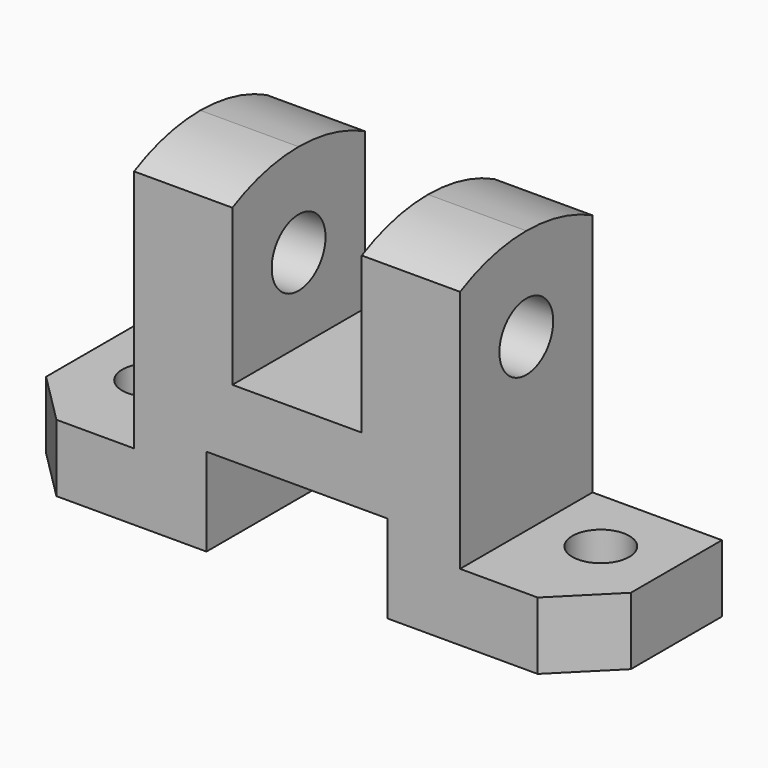
from build123d import *

# Parameters (mm, degrees)
F1_DEPTH       = 56.5
F3_DEPTH       = 25
F5_DEPTH       = 25
F7_DEPTH       = 12.5
F8_W           = 32
F8_H           = 17
F9_DEPTH       = 17.5
F10_R          = 6.5
F11_DEPTH      = 56.501
F11_DEPTH_BACK = 56.501
F12_R          = 5.5
F13_DEPTH      = 13.001
F14_SIZE2      = 10
F14_SIZE       = 10


with BuildPart() as f1:
    # F0 (on Right) → F1 (new body, symmetric)
    with BuildSketch(Plane.YZ):
        with BuildLine():
            Line((-16, 0), (0, 0))
            Line((0, 0), (16, 0))
            Line((16, 0), (16, 60.128765))
            ThreePointArc((16, 60.128765), (8.230833, 63.018427), (0, 64))
            ThreePointArc((0, 64), (-8.230833, 63.018427), (-16, 60.128765))
            Line((-16, 60.128765), (-16, 0))
        make_face()
    extrude(amount=F1_DEPTH, both=True)

    # F2 (on face) → F3 (cut)
    with BuildSketch(Plane.YZ.offset(56.5)):
        with BuildLine():
            Line((16, 13), (16, 60.128765))
            ThreePointArc((16, 60.128765), (0, 64), (-16, 60.128765))
            Line((-16, 60.128765), (-16, 13))
            Line((-16, 13), (16, 13))
        make_face()
    extrude(amount=-F3_DEPTH, mode=Mode.SUBTRACT)

    # F4 (on face) → F5 (cut)
    with BuildSketch(Plane(origin=(-56.5, 0, 0), x_dir=(0, -1, 0), z_dir=(-1, 0, 0))):
        with BuildLine():
            Line((16, 13), (16, 60.128765))
            ThreePointArc((16, 60.128765), (0, 64), (-16, 60.128765))
            Line((-16, 60.128765), (-16, 13))
            Line((-16, 13), (16, 13))
        make_face()
    extrude(amount=-F5_DEPTH, mode=Mode.SUBTRACT)

    # F6 (on Right) → F7 (cut, symmetric)
    with BuildSketch(Plane.YZ):
        with BuildLine():
            Line((-16, 60.128765), (-16, 30))
            Line((-16, 30), (16, 30))
            Line((16, 30), (16, 60.128765))
            ThreePointArc((16, 60.128765), (0, 64), (-16, 60.128765))
        make_face()
    extrude(amount=F7_DEPTH, both=True, mode=Mode.SUBTRACT)

    # F8 (on Right) → F9 (cut, symmetric)
    with BuildSketch(Plane.YZ):
        with Locations((0, 8.5)):
            Rectangle(F8_W, F8_H)
    extrude(amount=F9_DEPTH, both=True, mode=Mode.SUBTRACT)

    # F10 (on Right) → F11 (cut, two sides)
    with BuildSketch(Plane.YZ) as f11_sk:
        with Locations((0, 46)):
            Circle(F10_R)
    extrude(amount=F11_DEPTH, mode=Mode.SUBTRACT)
    extrude(f11_sk.sketch, amount=-F11_DEPTH_BACK, mode=Mode.SUBTRACT)

    # F12 (on face) → F13 (cut, through all)
    with BuildSketch(Plane.XY.offset(13)):
        with Locations((-43.5, 3)):
            Circle(F12_R)
        with Locations((43.5, 3)):
            Circle(F12_R)
    extrude(amount=-F13_DEPTH, mode=Mode.SUBTRACT)

    # F14
    f14_edges = [f1.edges().sort_by_distance(p)[0] for p in [
        (56.5, -16, 6.5),
        (-56.5, -16, 6.5),
    ]]
    chamfer(f14_edges, length=F14_SIZE, length2=F14_SIZE2)


solid = f1.part
